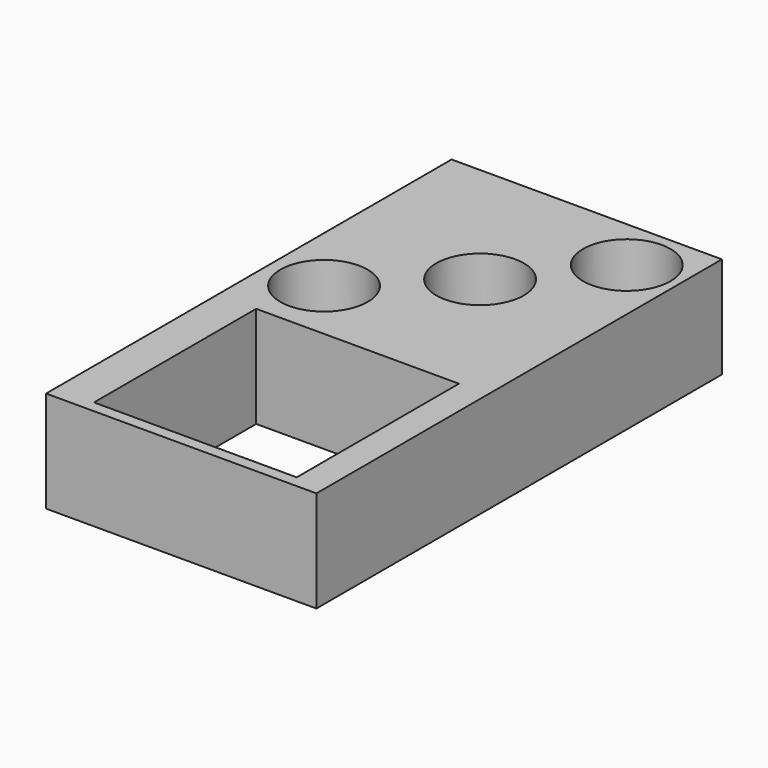
from build123d import *

# Parameters (mm, degrees)
SKETCH_W   = 80
SKETCH_H   = 150
SKETCH_R   = 12.93489
SKETCH_W_2 = 60
SKETCH_H_2 = 60
PAD_DEPTH  = 30


with BuildPart() as part:
    # Sketch → Pad (new body)
    with BuildSketch(Plane.XY):
        with Locations((-18.684139, 21.9223)):
            Rectangle(SKETCH_W, SKETCH_H)
        with Locations((-42.216557, 29.153965)):
            Circle(SKETCH_R, mode=Mode.SUBTRACT)
        with Locations((-16.072264, 54.191032)):
            Circle(SKETCH_R, mode=Mode.SUBTRACT)
        with Locations((5.941536, 80.952904)):
            Circle(SKETCH_R, mode=Mode.SUBTRACT)
        with Locations((-17.261113, -19.638437)):
            Rectangle(SKETCH_W_2, SKETCH_H_2, mode=Mode.SUBTRACT)
    extrude(amount=PAD_DEPTH)


solid = part.part
